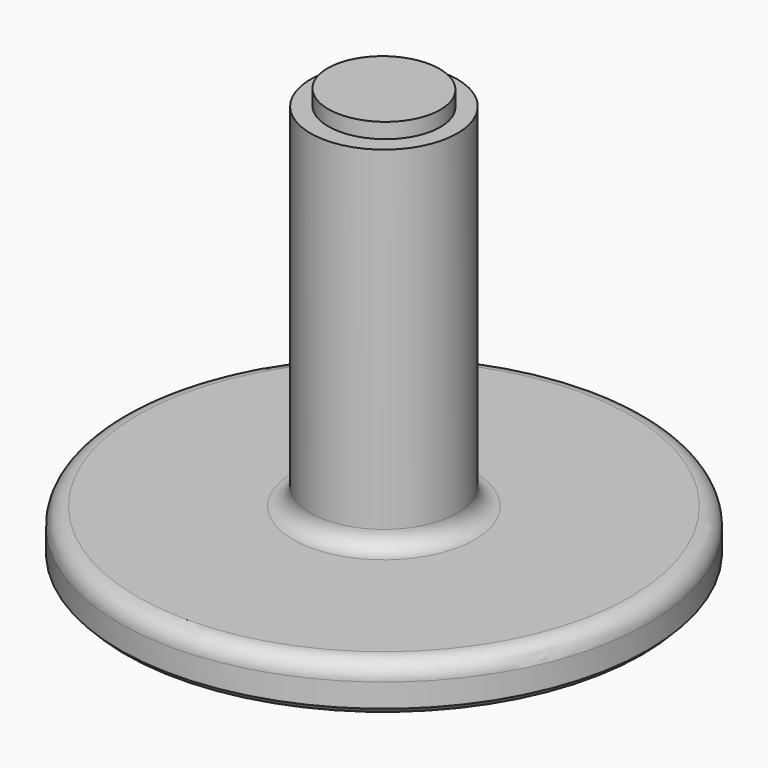
from build123d import *

# Parameters (mm, degrees)
SKETCH_R     = 45
PAD_DEPTH    = 8
SKETCH001_R  = 12.5
PAD001_DEPTH = 60
PAD002_DEPTH = 2.6
FILLET_R     = 3
CHAMFER_SIZE = 1


with BuildPart() as part:
    # Sketch → Pad (new body)
    with BuildSketch(Plane.XY):
        Circle(SKETCH_R)
    extrude(amount=PAD_DEPTH)

    # Sketch001 → Pad001 (join)
    with BuildSketch(Plane.XY.offset(8)):
        Circle(SKETCH001_R)
    extrude(amount=PAD001_DEPTH)

    # Sketch002 → Pad002 (join)
    with BuildSketch(Plane.XY.offset(68)):
        with BuildLine():
            add(Edge.make_bspline(
                [(9.6, 0), (9.6, 16.281278), (-4.8, 8.140639), (-19.2, 0), (-4.8, -8.140639), (9.6, -16.281278), (9.6, 0)],
                knots=[0, 0, 0, 2.094395, 2.094395, 4.18879, 4.18879, 6.283185, 6.283185, 6.283185], degree=2, weights=[1, 0.5, 1, 0.5, 1, 0.5, 1]))
        make_face()
    extrude(amount=PAD002_DEPTH)

    # Fillet
    fillet_edges = [part.edges().sort_by_distance(p)[0] for p in [
        (-45, 0, 8),
        (-12.5, 0, 8),
    ]]
    fillet(fillet_edges, radius=FILLET_R)

    # Chamfer
    chamfer_edges = [part.edges().sort_by_distance(p)[0] for p in [
        (-45, 0, 0),
    ]]
    chamfer(chamfer_edges, length=CHAMFER_SIZE)


solid = part.part
